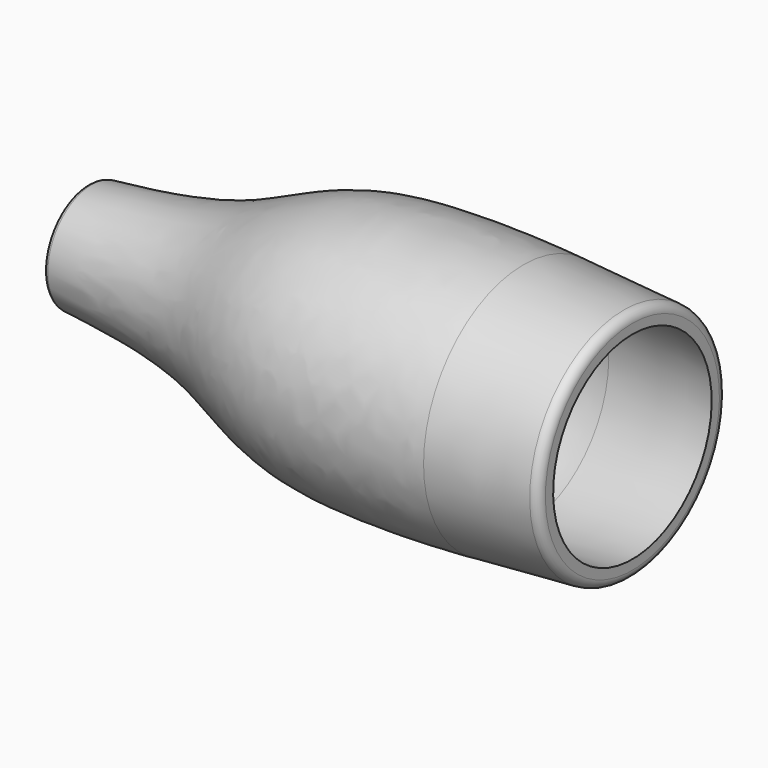
from build123d import *

# Parameters (mm, degrees)
F2_R = 1
F3_R = 0.5


with BuildPart() as f1:
    # F0 (on Front) → F1 (revolve)
    with BuildSketch(Plane.XZ):
        with BuildLine():
            Line((60, 12.9108782567), (48, 13.75))
            add(Edge.make_bspline(
                [(0, 6), (11.4919004803, 6.9856289308), (18.0424222366, 9.631529618), (29.0806898355, 14.7666881692), (44.6449176536, 13.9846102123), (48, 13.75)],
                knots=[0, 0, 0, 0, 0.3674335032, 0.6472361068, 1, 1, 1, 1], degree=3))
            Line((0, 6), (0, 5))
            add(Edge.make_bspline(
                [(0, 5), (16.6661370682, 5.9941056502), (20.2456012863, 9.0717837053), (29.9782875352, 12.4044792441), (44.6379494506, 12.1710072082), (48, 11.75)],
                knots=[0, 0, 0, 0, 0.4001131959, 0.647153019, 1, 1, 1, 1], degree=3))
            Line((48, 11.75), (60, 10.9108782567))
            Line((60, 10.9108782567), (60, 12.9108782567))
        make_face()
    revolve(axis=Axis((24.9500407372, 0, 0), (1, 0, 0)))

    # F2
    f2_edges = [f1.edges().sort_by_distance(p)[0] for p in [
        (60, 0, -12.910878),
    ]]
    fillet(f2_edges, radius=F2_R)

    # F3
    f3_edges = [f1.edges().sort_by_distance(p)[0] for p in [
        (0, 0, -6),
    ]]
    fillet(f3_edges, radius=F3_R)


solid = f1.part
